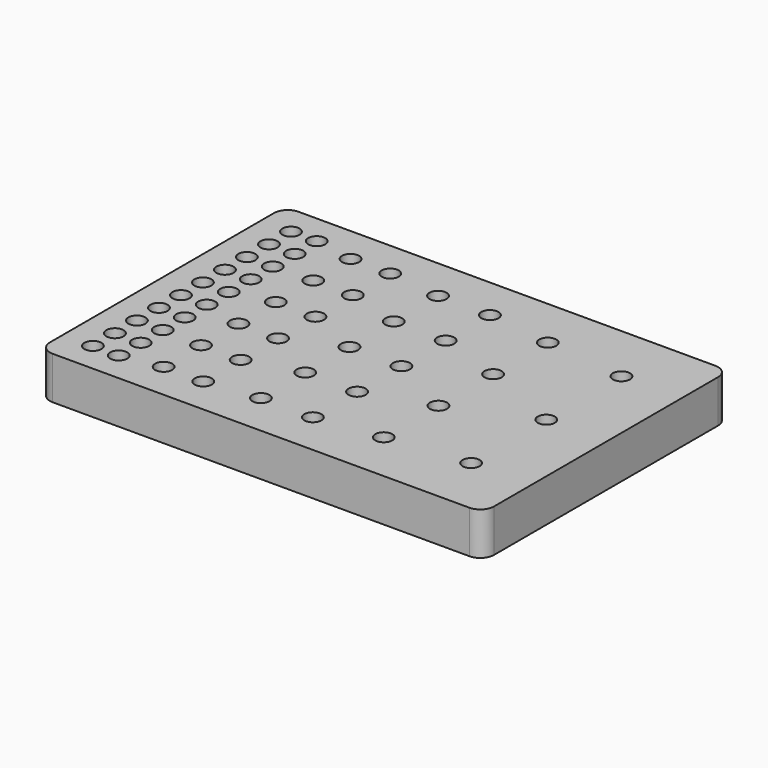
from build123d import *

# Parameters (mm, degrees)
F0_W     = 165.1
F0_H     = 114.3
F0_R     = 3.175
F1_DEPTH = 12.7
F2_W     = 165.1
F2_H     = 114.3
F3_DEPTH = 3.175
F4_R     = 5.08


with BuildPart() as f1:
    # F0 (on Top) → F1 (new body)
    with BuildSketch(Plane.XY):
        Rectangle(F0_W, F0_H)
        with Locations((-71.40575, -46.00575)):
            Circle(F0_R, mode=Mode.SUBTRACT)
        with Locations((-61.81725, -46.00575)):
            Circle(F0_R, mode=Mode.SUBTRACT)
        with Locations((-47.171459, -43.434)):
            Circle(F0_R, mode=Mode.SUBTRACT)
        with Locations((-71.40575, -35.78225)):
            Circle(F0_R, mode=Mode.SUBTRACT)
        with Locations((-61.81725, -35.78225)):
            Circle(F0_R, mode=Mode.SUBTRACT)
        with Locations((-32.439459, -43.434)):
            Circle(F0_R, mode=Mode.SUBTRACT)
        with Locations((-12.839662, -41.148)):
            Circle(F0_R, mode=Mode.SUBTRACT)
        with Locations((-71.40575, -25.55875)):
            Circle(F0_R, mode=Mode.SUBTRACT)
        with Locations((-71.40575, -15.33525)):
            Circle(F0_R, mode=Mode.SUBTRACT)
        with Locations((-61.81725, -25.55875)):
            Circle(F0_R, mode=Mode.SUBTRACT)
        with Locations((-47.171459, -26.0604)):
            Circle(F0_R, mode=Mode.SUBTRACT)
        with Locations((-61.81725, -15.33525)):
            Circle(F0_R, mode=Mode.SUBTRACT)
        with Locations((-71.40575, -5.11175)):
            Circle(F0_R, mode=Mode.SUBTRACT)
        with Locations((-47.171459, -8.6868)):
            Circle(F0_R, mode=Mode.SUBTRACT)
        with Locations((-61.81725, -5.11175)):
            Circle(F0_R, mode=Mode.SUBTRACT)
        with Locations((-32.439459, -26.0604)):
            Circle(F0_R, mode=Mode.SUBTRACT)
        with Locations((-12.839662, -20.574)):
            Circle(F0_R, mode=Mode.SUBTRACT)
        with Locations((-32.439459, -8.6868)):
            Circle(F0_R, mode=Mode.SUBTRACT)
        with Locations((6.464338, -41.148)):
            Circle(F0_R, mode=Mode.SUBTRACT)
        with Locations((30.402271, -38.1)):
            Circle(F0_R, mode=Mode.SUBTRACT)
        with Locations((60.325, -34.925)):
            Circle(F0_R, mode=Mode.SUBTRACT)
        with Locations((6.464338, -20.574)):
            Circle(F0_R, mode=Mode.SUBTRACT)
        with Locations((30.402271, -12.7)):
            Circle(F0_R, mode=Mode.SUBTRACT)
        with Locations((-71.40575, 5.11175)):
            Circle(F0_R, mode=Mode.SUBTRACT)
        with Locations((-61.81725, 5.11175)):
            Circle(F0_R, mode=Mode.SUBTRACT)
        with Locations((-47.171459, 8.6868)):
            Circle(F0_R, mode=Mode.SUBTRACT)
        with Locations((-71.40575, 15.33525)):
            Circle(F0_R, mode=Mode.SUBTRACT)
        with Locations((-71.40575, 25.55875)):
            Circle(F0_R, mode=Mode.SUBTRACT)
        with Locations((-61.81725, 15.33525)):
            Circle(F0_R, mode=Mode.SUBTRACT)
        with Locations((-61.81725, 25.55875)):
            Circle(F0_R, mode=Mode.SUBTRACT)
        with Locations((-47.171459, 26.0604)):
            Circle(F0_R, mode=Mode.SUBTRACT)
        with Locations((-32.439459, 8.6868)):
            Circle(F0_R, mode=Mode.SUBTRACT)
        with Locations((-12.839662, 0)):
            Circle(F0_R, mode=Mode.SUBTRACT)
        with Locations((-32.439459, 26.0604)):
            Circle(F0_R, mode=Mode.SUBTRACT)
        with Locations((-12.839662, 20.574)):
            Circle(F0_R, mode=Mode.SUBTRACT)
        with Locations((-71.40575, 35.78225)):
            Circle(F0_R, mode=Mode.SUBTRACT)
        with Locations((-61.81725, 35.78225)):
            Circle(F0_R, mode=Mode.SUBTRACT)
        with Locations((-71.40575, 46.00575)):
            Circle(F0_R, mode=Mode.SUBTRACT)
        with Locations((-61.81725, 46.00575)):
            Circle(F0_R, mode=Mode.SUBTRACT)
        with Locations((-47.171459, 43.434)):
            Circle(F0_R, mode=Mode.SUBTRACT)
        with Locations((-12.839662, 41.148)):
            Circle(F0_R, mode=Mode.SUBTRACT)
        with Locations((-32.439459, 43.434)):
            Circle(F0_R, mode=Mode.SUBTRACT)
        with Locations((6.464338, 0)):
            Circle(F0_R, mode=Mode.SUBTRACT)
        with Locations((30.402271, 12.7)):
            Circle(F0_R, mode=Mode.SUBTRACT)
        with Locations((6.464338, 20.574)):
            Circle(F0_R, mode=Mode.SUBTRACT)
        with Locations((60.325, 0)):
            Circle(F0_R, mode=Mode.SUBTRACT)
        with Locations((6.464338, 41.148)):
            Circle(F0_R, mode=Mode.SUBTRACT)
        with Locations((30.402271, 38.1)):
            Circle(F0_R, mode=Mode.SUBTRACT)
        with Locations((60.325, 34.925)):
            Circle(F0_R, mode=Mode.SUBTRACT)
    extrude(amount=-F1_DEPTH)

    # F2 (on face) → F3 (join)
    with BuildSketch(Plane(origin=(0, 0, -12.7), x_dir=(1, 0, 0), z_dir=(0, 0, -1))):
        Rectangle(F2_W, F2_H)
    extrude(amount=F3_DEPTH)

    # F4
    f4_edges = [f1.edges().sort_by_distance(p)[0] for p in [
        (-82.55, -57.15, -7.9375),
        (-82.55, 57.15, -7.9375),
        (82.55, -57.15, -7.9375),
        (82.55, 57.15, -7.9375),
    ]]
    fillet(f4_edges, radius=F4_R)


solid = f1.part
